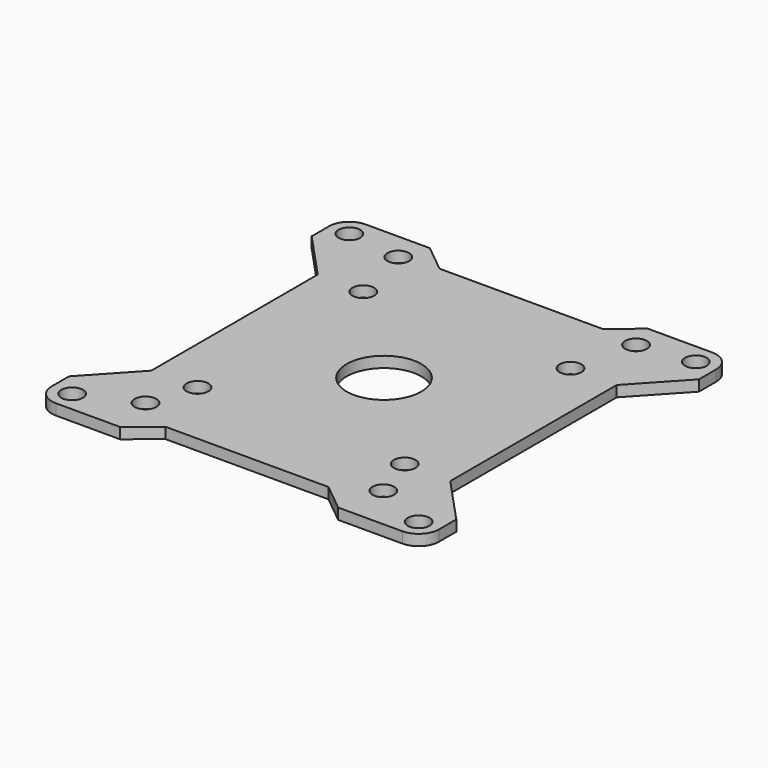
from build123d import *

# Parameters (mm, degrees)
F0_R     = 1.6
F0_R_2   = 5.5
F1_DEPTH = 1.6


with BuildPart() as f1:
    # F0 (on Top) → F1 (new body)
    with BuildSketch(Plane.XY):
        with BuildLine():
            Line((-16.054926, 20.5), (-25.5, 20.5))
            ThreePointArc((-25.5, 20.5), (-27.62132, 19.62132), (-28.5, 17.5))
            Line((-28.5, 17.5), (-28.5, 14.321139))
            Line((-28.5, 14.321139), (-22.003273, 7.310869))
            Line((-22.003273, 7.310869), (-22.003273, -8))
            Line((-22.003273, -8), (-22.003273, -23.310869))
            Line((-22.003273, -23.310869), (-28.5, -30.321139))
            Line((-28.5, -30.321139), (-28.5, -33.5))
            ThreePointArc((-28.5, -33.5), (-27.62132, -35.62132), (-25.5, -36.5))
            Line((-25.5, -36.5), (-16.054926, -36.5))
            Line((-16.054926, -36.5), (-11.990136, -33.202917))
            Line((-11.990136, -33.202917), (0, -33.202917))
            Line((0, -33.202917), (11.990136, -33.202917))
            Line((11.990136, -33.202917), (16.054926, -36.5))
            Line((16.054926, -36.5), (25.5, -36.5))
            ThreePointArc((25.5, -36.5), (27.62132, -35.62132), (28.5, -33.5))
            Line((28.5, -33.5), (28.5, -30.321139))
            Line((28.5, -30.321139), (22.003273, -23.310869))
            Line((22.003273, -23.310869), (22.003273, -8))
            Line((22.003273, -8), (22.003273, 7.310869))
            Line((22.003273, 7.310869), (28.5, 14.321139))
            Line((28.5, 14.321139), (28.5, 17.5))
            ThreePointArc((28.5, 17.5), (27.62132, 19.62132), (25.5, 20.5))
            Line((25.5, 20.5), (16.054926, 20.5))
            Line((16.054926, 20.5), (11.990136, 17.202917))
            Line((11.990136, 17.202917), (0, 17.202917))
            Line((0, 17.202917), (-11.990136, 17.202917))
            Line((-11.990136, 17.202917), (-16.054926, 20.5))
        make_face()
        with Locations((-25.5, -33.5)):
            Circle(F0_R, mode=Mode.SUBTRACT)
        with Locations((-17.5, -30)):
            Circle(F0_R, mode=Mode.SUBTRACT)
        with Locations((-15.25, -23.25)):
            Circle(F0_R, mode=Mode.SUBTRACT)
        with Locations((17.5, -30)):
            Circle(F0_R, mode=Mode.SUBTRACT)
        with Locations((25.5, -33.5)):
            Circle(F0_R, mode=Mode.SUBTRACT)
        with Locations((15.25, -23.25)):
            Circle(F0_R, mode=Mode.SUBTRACT)
        with Locations((-15.25, 7.25)):
            Circle(F0_R, mode=Mode.SUBTRACT)
        with Locations((-25.5, 17.5)):
            Circle(F0_R, mode=Mode.SUBTRACT)
        with Locations((-17.500001, 16.5)):
            Circle(F0_R, mode=Mode.SUBTRACT)
        with Locations((0, -8)):
            Circle(F0_R_2, mode=Mode.SUBTRACT)
        with Locations((15.25, 7.25)):
            Circle(F0_R, mode=Mode.SUBTRACT)
        with Locations((17.500001, 16.5)):
            Circle(F0_R, mode=Mode.SUBTRACT)
        with Locations((25.5, 17.5)):
            Circle(F0_R, mode=Mode.SUBTRACT)
    extrude(amount=F1_DEPTH)


solid = f1.part
